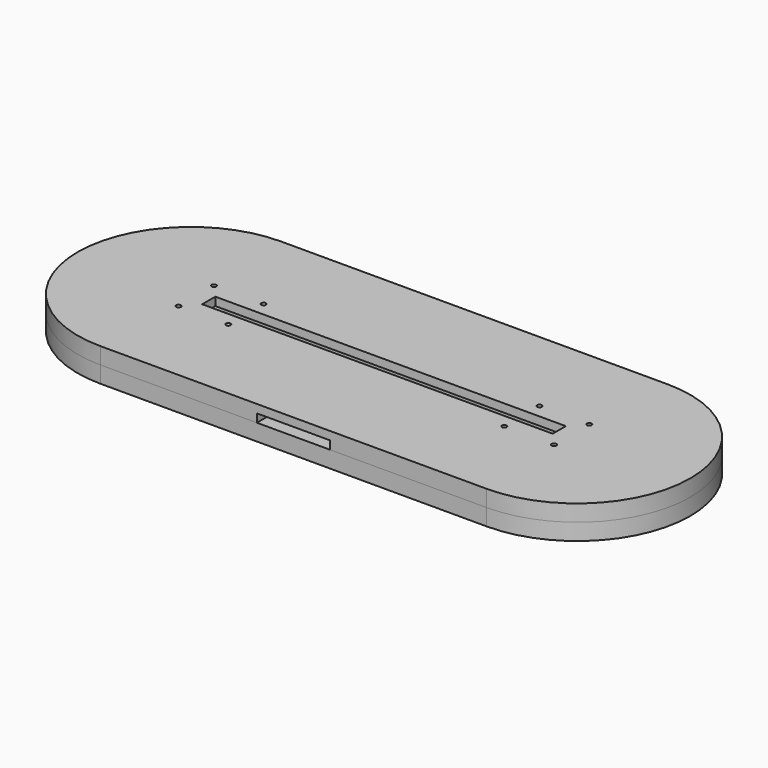
from build123d import *

# Parameters (mm, degrees)
BOX_BOTTOM_HALF_0_W     = 224
BOX_BOTTOM_HALF_0_H     = 84
BOX_BOTTOM_HALF_0_DEPTH = 7
PAD_DEPTH               = 9
POCKET_DEPTH            = 6
SKETCH002_W             = 26.5
SKETCH002_H             = 35
POCKET001_DEPTH         = 6
SKETCH003_W             = 127
SKETCH003_H             = 5.95
PAD001_DEPTH            = 3
SKETCH004_R             = 0.85
POCKET002_DEPTH         = 485.929265
SKETCH005_W             = 26.5
SKETCH005_H             = 7.75
PAD002_DEPTH            = 3


with BuildPart() as box_bottom_half_0_body:
    # box_bottom_half_0 → box_bottom_half_0 (new body)
    with BuildSketch(Plane(origin=(-112, -42, -1), x_dir=(1, 0, 0), z_dir=(0, 0, 1))):
        with Locations((112, 42)):
            Rectangle(BOX_BOTTOM_HALF_0_W, BOX_BOTTOM_HALF_0_H)
    extrude(amount=BOX_BOTTOM_HALF_0_DEPTH)


with BuildPart() as body:
    # Sketch → Pad (new body)
    with BuildSketch(Plane.XY):
        with BuildLine():
            ThreePointArc((-70, 41), (-111, 0), (-70, -41))
            Line((-70, -41), (70, -41))
            ThreePointArc((70, -41), (111, 0), (70, 41))
            Line((-70, 41), (70, 41))
        make_face()
    extrude(amount=PAD_DEPTH)

    # Sketch001 (on Face6 of Pad) → Pocket (cut)
    with BuildSketch(Plane.XY.offset(9)):
        with BuildLine():
            ThreePointArc((-62.5, 6), (-68.5, 0), (-62.5, -6))
            Line((-62.5, -6), (62.5, -6))
            ThreePointArc((62.5, -6), (68.5, 0), (62.5, 6))
            Line((-62.5, 6), (62.5, 6))
        make_face()
    extrude(amount=-POCKET_DEPTH, mode=Mode.SUBTRACT)

    # Sketch002 (on Face5 of Pocket) → Pocket001 (cut)
    with BuildSketch(Plane.XY.offset(9)):
        with Locations((0, -23.5)):
            Rectangle(SKETCH002_W, SKETCH002_H)
    extrude(amount=-POCKET001_DEPTH, mode=Mode.SUBTRACT)

    # Sketch003 (on Face5 of Pocket001) → Pad001 (join)
    with BuildSketch(Plane.XY.offset(9)):
        with BuildLine():
            ThreePointArc((-70, 41), (-111, 0), (-70, -41))
            Line((-70, -41), (70, -41))
            ThreePointArc((70, -41), (111, 0), (70, 41))
            Line((-70, 41), (70, 41))
        make_face()
        Rectangle(SKETCH003_W, SKETCH003_H, mode=Mode.SUBTRACT)
    extrude(amount=PAD001_DEPTH)

    # Sketch004 (on Face12 of Pad001) → Pocket002 (cut, through all)
    with BuildSketch(Plane.XY.offset(12)):
        with Locations((-68, -8)):
            Circle(SKETCH004_R)
        with Locations((-50, -8)):
            Circle(SKETCH004_R)
        with Locations((-50, 8)):
            Circle(SKETCH004_R)
        with Locations((-68, 8)):
            Circle(SKETCH004_R)
    pocket002 = extrude(amount=-POCKET002_DEPTH, mode=Mode.SUBTRACT)

    # Sketch005 (on Face10 of Pocket002) → Pad002 (join)
    with BuildSketch(Plane.XY.offset(3)):
        with Locations((0, -37.125)):
            Rectangle(SKETCH005_W, SKETCH005_H)
    extrude(amount=PAD002_DEPTH)

    # Mirrored: Pocket002 across Sketch004 V_Axis
    add(pocket002.mirror(Plane(origin=(0, 0, 12), x_dir=(0, 0, 1), z_dir=(1, 0, 0))), mode=Mode.SUBTRACT)


with BuildPart() as bottom_half_0_body:
    # bottom_half_0 base: copy of Body
    add(body.part)

    # bottom_half_0: intersect box_bottom_half_0 body
    add(box_bottom_half_0_body.part, mode=Mode.INTERSECT)


with BuildPart() as top_half_0_body:
    # top_half_0 base: copy of Body
    add(body.part)

    # top_half_0: cut box_bottom_half_0 body
    add(box_bottom_half_0_body.part, mode=Mode.SUBTRACT)


solid = Compound([bottom_half_0_body.part, top_half_0_body.part])
